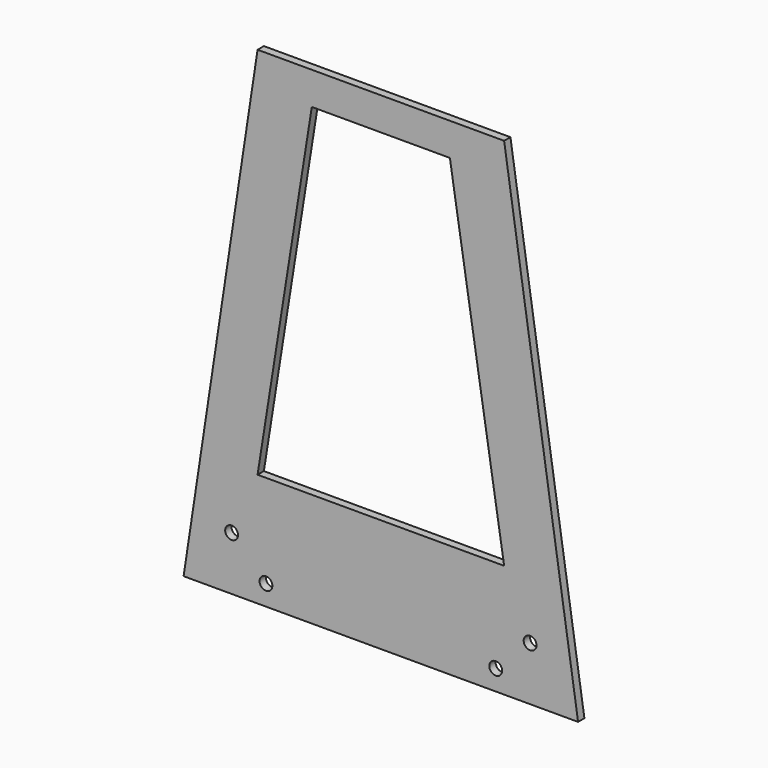
from build123d import *

# Parameters (mm, degrees)
F1_DEPTH = 8
F2_R     = 6.5
F3_DEPTH = 25


with BuildPart() as f1:
    # F0 (on Front) → F1 (new body)
    with BuildSketch(Plane.XZ):
        Polygon((-125, 247.171499), (-200, -247.171499), (200, -247.171499), (125, 247.171499), align=None)
        Polygon((-125, -132.198229), (-70, 214.002907), (70, 214.002907), (125, -132.198229), align=None, mode=Mode.SUBTRACT)
    extrude(amount=F1_DEPTH)

    # F2 (on face) → F3 (cut)
    with BuildSketch(Plane.XZ.offset(8)):
        with Locations((-116.481792, -226.543925)):
            Circle(F2_R)
        with Locations((-151.33369, -192.551615)):
            Circle(F2_R)
        with Locations((151.33369, -192.551615)):
            Circle(F2_R)
        with Locations((116.481792, -226.543925)):
            Circle(F2_R)
    extrude(amount=-F3_DEPTH, mode=Mode.SUBTRACT)


solid = f1.part
